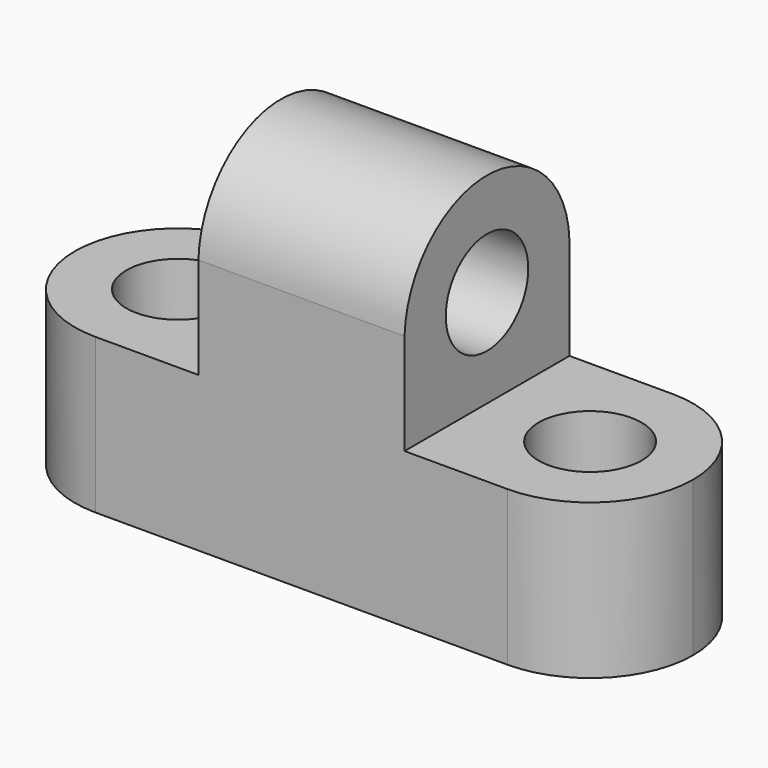
from build123d import *

# Parameters (mm, degrees)
F1_DEPTH = 25.4
F2_R     = 6.35
F3_DEPTH = 25.4
F4_R     = 6.35
F5_DEPTH = 25.4
F7_DEPTH = 25.4


with BuildPart() as f1:
    # F0 (on Front) → F1 (new body)
    with BuildSketch(Plane.XZ):
        Polygon((0, 19.05), (0, 0), (76.2, 0), (76.2, 19.05), (50.8, 19.05), (50.8, 43.9752354272), (25.4, 43.9752354272), (25.4, 19.05), align=None)
    extrude(amount=F1_DEPTH)

    # F2 (on face) → F3 (cut)
    with BuildSketch(Plane.YZ.offset(50.8)):
        with Locations((-12.7, 31.0931869331)):
            Circle(F2_R)
        with BuildLine():
            ThreePointArc((-25.4, 31.5126177136), (-12.7, 43.8001111156), (0, 31.5126177136))
            Line((0, 31.5126177136), (0, 43.9752354272))
            Line((0, 43.9752354272), (-25.4, 43.9752354272))
            Line((-25.4, 43.9752354272), (-25.4, 31.5126177136))
        make_face()
    extrude(amount=-F3_DEPTH, mode=Mode.SUBTRACT)

    # F4 (on face) → F5 (cut)
    with BuildSketch(Plane.XY.offset(19.05)):
        with Locations((12.7164462461, -12.7)):
            Circle(F4_R)
        with BuildLine():
            ThreePointArc((12.7, -25.4), (0.0164355973, -12.7), (12.7, 0))
            Line((12.7, 0), (0, 0))
            Line((0, 0), (0, -25.4))
            Line((0, -25.4), (12.7, -25.4))
        make_face()
        with Locations((63.5, -12.7)):
            Circle(F4_R)
    extrude(amount=-F5_DEPTH, mode=Mode.SUBTRACT)

    # F6 (on face) → F7 (cut)
    with BuildSketch(Plane.XY.offset(19.05)):
        with BuildLine():
            ThreePointArc((63.5, 0), (72.4802561211, -3.7197438789), (76.2, -12.7))
            Line((76.2, -12.7), (76.2, 0))
            Line((76.2, 0), (63.5, 0))
        make_face()
        with BuildLine():
            ThreePointArc((76.2, -12.7), (72.4802561211, -21.6802561211), (63.5, -25.4))
            Line((63.5, -25.4), (76.2, -25.4))
            Line((76.2, -25.4), (76.2, -12.7))
        make_face()
    extrude(amount=-F7_DEPTH, mode=Mode.SUBTRACT)


solid = f1.part
